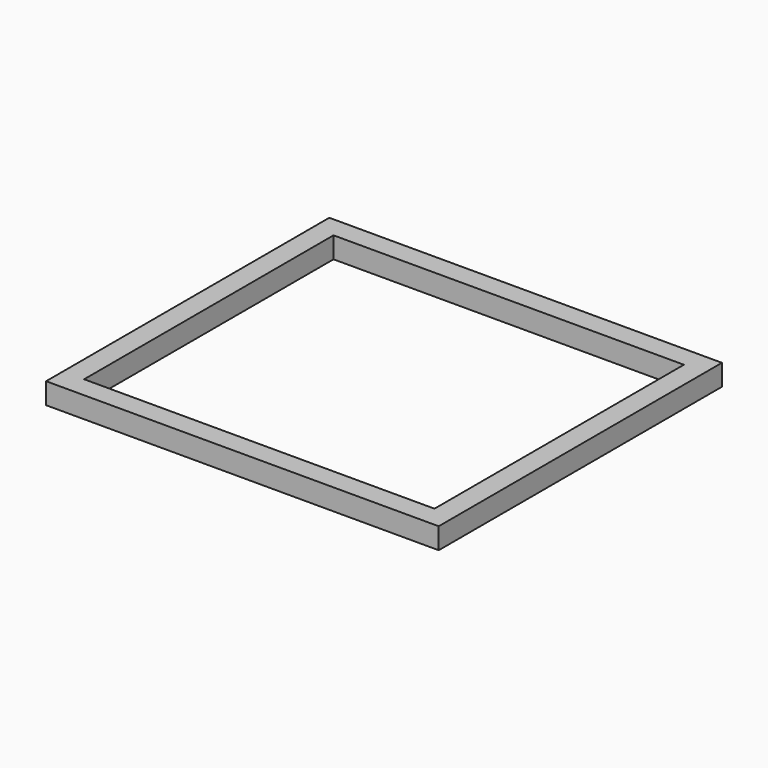
from build123d import *

# Parameters (mm, degrees)
F2_W = 3.175
F2_H = 3.175


with BuildPart() as f3:
    # F3: sweep along a path in F0
    with BuildLine(Plane.XY) as f3_path:
        Line((-147.2948789597, -61.8483945727), (-147.2948789597, -11.8481973186))
        Line((-147.2948789597, -11.8481973186), (-91.4910789597, -11.8481973186))
        Line((-91.4910789597, -11.8481973186), (-91.4910789597, -61.8483945727))
        Line((-91.4910789597, -61.8483945727), (-147.2948789597, -61.8483945727))
    # F2 (on line) → F3 (sweep)
    with BuildSketch(Plane(origin=(0, -61.8483945727, 0), x_dir=(-1, 0, 0), z_dir=(0, 1, 0))):
        with Locations((147.2948789597, 0)):
            Rectangle(F2_W, F2_H)
    sweep(path=f3_path.line, transition=Transition.RIGHT)


solid = f3.part
